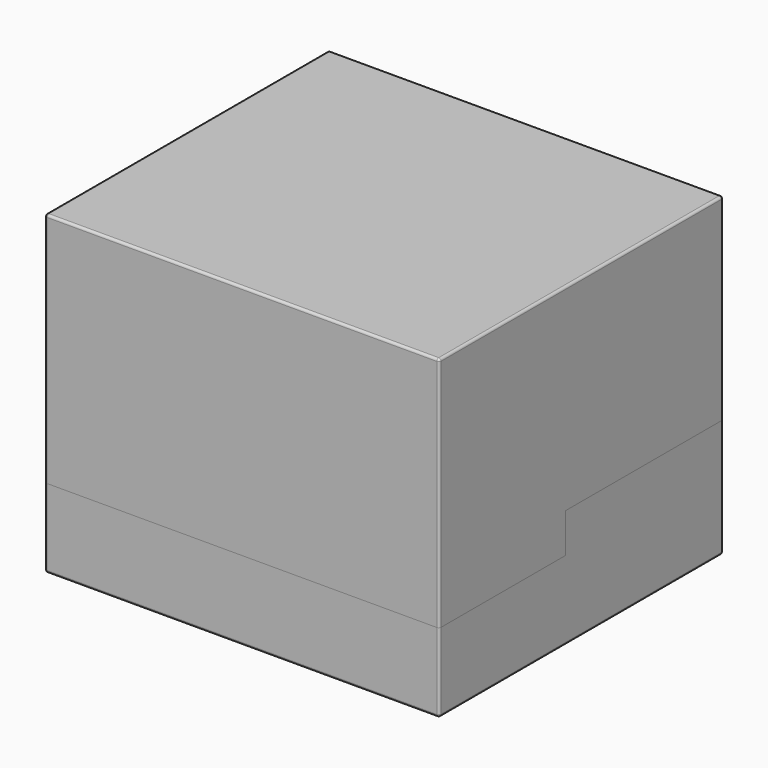
from build123d import *

# Parameters (mm, degrees)
F0_W     = 254
F0_H     = 228.6
F1_DEPTH = 101.6
F2_R     = 1.524
F4_DEPTH = 127
F6_R     = 1.524
F7_ANGLE = -90


with BuildPart() as f1:
    # F0 (on Front) → F1 (new body, symmetric)
    with BuildSketch(Plane.XZ):
        Rectangle(F0_W, F0_H)
    extrude(amount=F1_DEPTH, both=True)

    # F2
    f2_edges = [f1.edges().sort_by_distance(p)[0] for p in [
        (127, -101.6, 0),
        (0, -101.6, 114.3),
        (-127, -101.6, 0),
        (0, -101.6, -114.3),
        (127, 101.6, 0),
        (0, 101.6, 114.3),
        (-127, 101.6, 0),
        (0, 101.6, -114.3),
        (127, 0, 114.3),
        (-127, 0, 114.3),
        (127, 0, -114.3),
        (-127, 0, -114.3),
    ]]
    fillet(f2_edges, radius=F2_R)


with BuildPart() as f4:
    # F3 (on Right) → F4 (new body, symmetric)
    with BuildSketch(Plane.YZ):
        Polygon((25.4, 114.3), (-100.076, 114.3), (-100.076, -114.3), (50.8, -114.3), (50.8, -12.7), (25.4, -12.7), align=None)
    extrude(amount=F4_DEPTH, both=True)

    # F6
    f6_edges = [f4.edges().sort_by_distance(p)[0] for p in [
        (127, -37.338, 114.3),
        (127, -24.638, -114.3),
        (-127, -24.638, -114.3),
        (-127, -37.338, 114.3),
    ]]
    fillet(f6_edges, radius=F6_R)


with BuildPart() as f1_1:
    add(f1.part)

    # F5: cut F4
    add(f4.part, mode=Mode.SUBTRACT)


with BuildPart() as f1_2:
    # F7: moved
    add(f1_1.part.rotate(Axis((0, 0, 0), (1, 0, 0)), F7_ANGLE))


with BuildPart() as f4_1:
    # F7: moved
    add(f4.part.rotate(Axis((0, 0, 0), (1, 0, 0)), F7_ANGLE))


solid = Compound([f1_2.part, f4_1.part])
